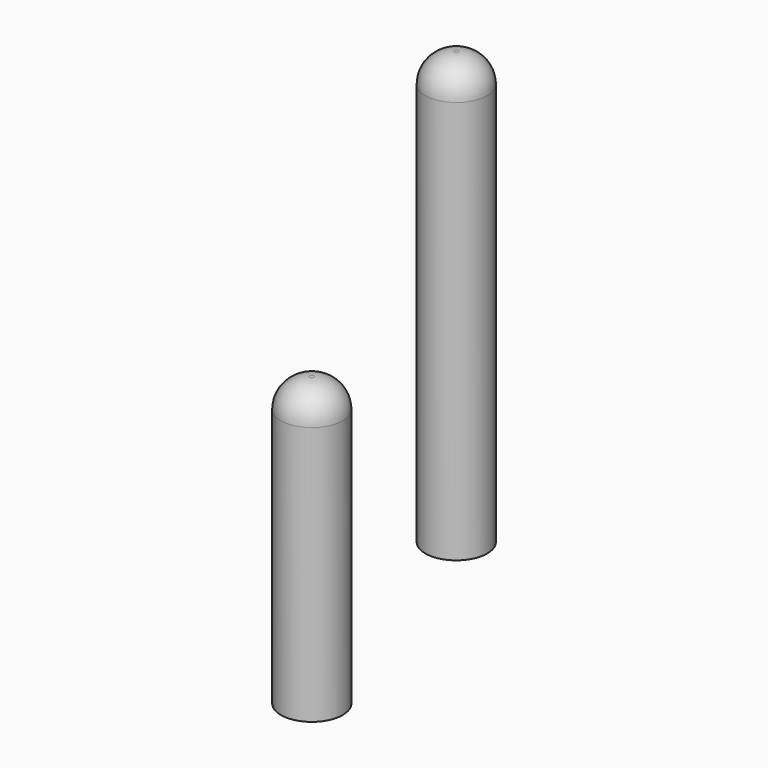
from build123d import *

# Parameters (mm, degrees)
F0_R     = 5.461
F1_DEPTH = 76.2
F2_R     = 5.461
F3_DEPTH = 50.8
F4_R     = 5.08
F4_2_R   = 5.08


with BuildPart() as f1:
    # F0 (on Top) → F1 (new body)
    with BuildSketch(Plane.XY):
        with Locations((-55.782307, 17.584616)):
            Circle(F0_R)
    extrude(amount=F1_DEPTH)

    # F4
    f4_edges = [f1.edges().sort_by_distance(p)[0] for p in [
        (-61.243307, 17.584616, 76.2),
    ]]
    fillet(f4_edges, radius=F4_R)


with BuildPart() as f3:
    # F2 (on Top) → F3 (new body)
    with BuildSketch(Plane.XY):
        with Locations((-41.220549, -32.48287)):
            Circle(F2_R)
    extrude(amount=F3_DEPTH)

    # F4#2
    f4_2_edges = [f3.edges().sort_by_distance(p)[0] for p in [
        (-46.681549, -32.48287, 50.8),
    ]]
    fillet(f4_2_edges, radius=F4_2_R)


solid = Compound([f1.part, f3.part])
